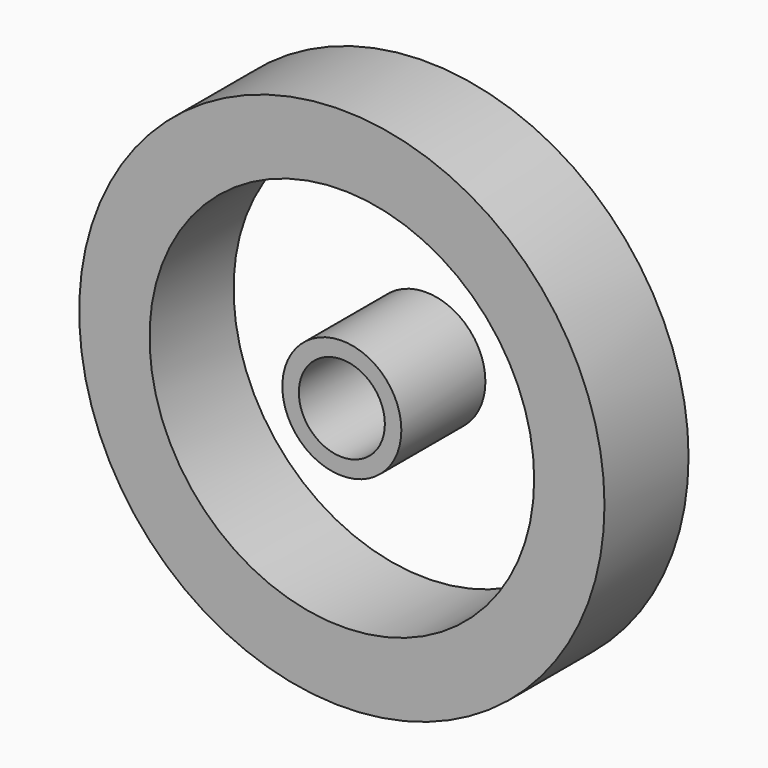
from build123d import *

# Parameters (mm, degrees)
F0_R     = 63.5
F0_R_2   = 46.497954
F1_DEPTH = 25.4
F2_R     = 14.385117
F2_R_2   = 10.39959
F3_DEPTH = 25.4


with BuildPart() as f1:
    # F0 (on Front) → F1 (new body)
    with BuildSketch(Plane.XZ):
        Circle(F0_R)
        Circle(F0_R_2, mode=Mode.SUBTRACT)
    extrude(amount=F1_DEPTH)


with BuildPart() as f3:
    # F2 (on Front) → F3 (new body)
    with BuildSketch(Plane.XZ):
        Circle(F2_R)
        Circle(F2_R_2, mode=Mode.SUBTRACT)
    extrude(amount=F3_DEPTH)


solid = Compound([f1.part, f3.part])
